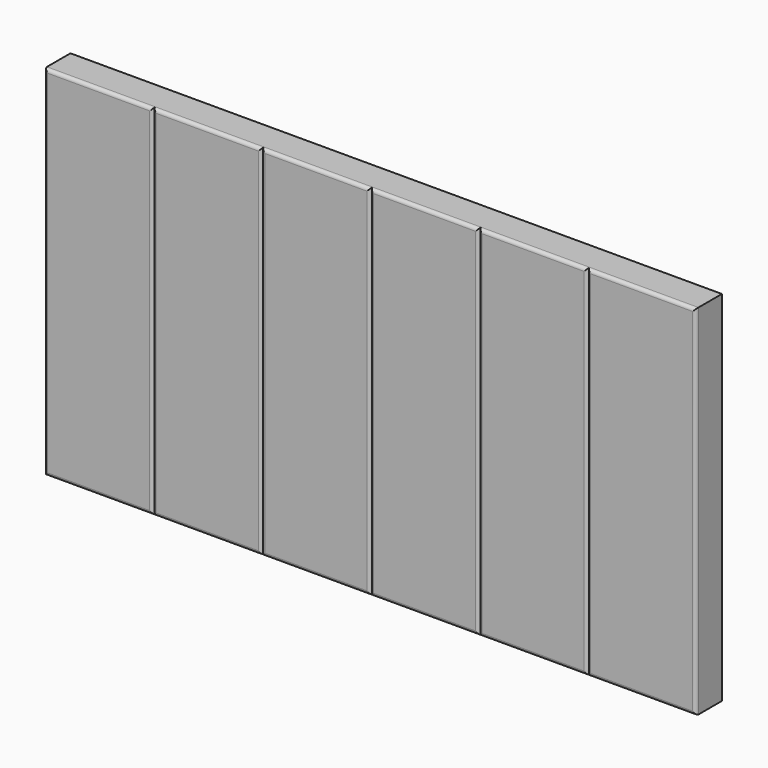
from build123d import *

# Parameters (mm, degrees)
SKETCH_W      = 333.333333
SKETCH_H      = 1100
EXTRUDE_DEPTH = 100
FILLET_R      = 10
ARRAY_X_COUNT = 6
ARRAY_X_PITCH = 333.333333


with BuildPart() as part:
    # Sketch → Extrude (new body)
    with BuildSketch(Plane.XZ):
        with Locations((166.666666, 550)):
            Rectangle(SKETCH_W, SKETCH_H)
    extrude(amount=EXTRUDE_DEPTH)

    # Fillet
    fillet_edges = [part.edges().sort_by_distance(p)[0] for p in [
        (166.666667, -100, 0),
        (333.333333, -100, 550),
        (166.666667, -100, 1100),
        (0, -100, 550),
    ]]
    fillet(fillet_edges, radius=FILLET_R)

    # Array X: part ×6


with BuildPart() as part_1:
    add(part.part)
    with Locations(*[(i * ARRAY_X_PITCH, 0, 0) for i in range(1, ARRAY_X_COUNT)]):
        add(part.part)


solid = part_1.part
